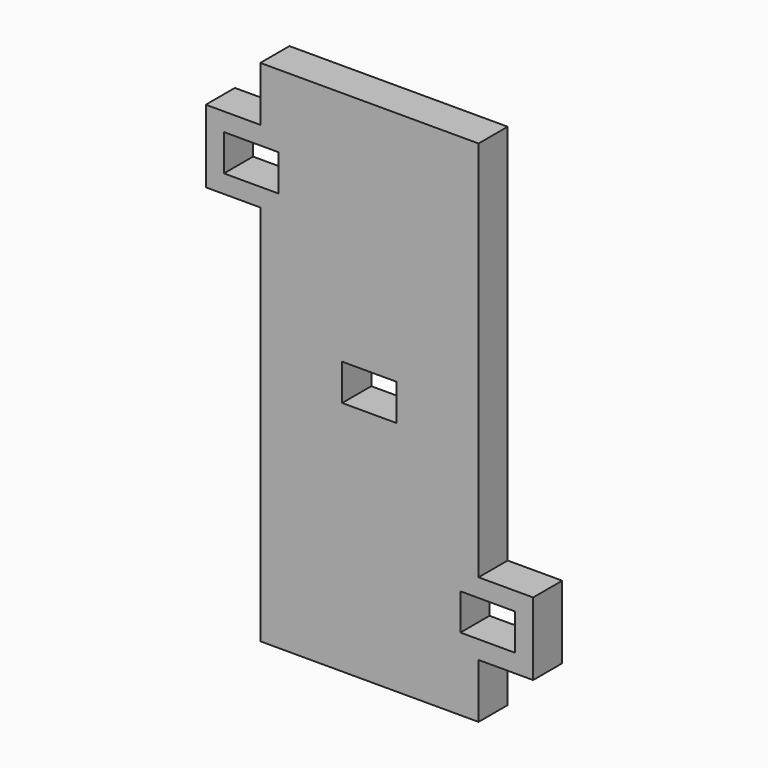
from build123d import *

# Parameters (mm, degrees)
F0_W     = 15
F0_H     = 10
F1_DEPTH = 10


with BuildPart() as f1:
    # F0 (on Front) → F1 (new body)
    with BuildSketch(Plane.XZ):
        Polygon((30, 70), (-30, 70), (-30, 55), (-45, 55), (-45, 35), (-30, 35), (-30, -70), (30, -70), (30, -55), (45, -55), (45, -35), (30, -35), align=None)
        with Locations((32.5, -45)):
            Rectangle(F0_W, F0_H, mode=Mode.SUBTRACT)
        with Locations((-32.5, 45)):
            Rectangle(F0_W, F0_H, mode=Mode.SUBTRACT)
        Rectangle(F0_W, F0_H, mode=Mode.SUBTRACT)
    extrude(amount=F1_DEPTH)


solid = f1.part
